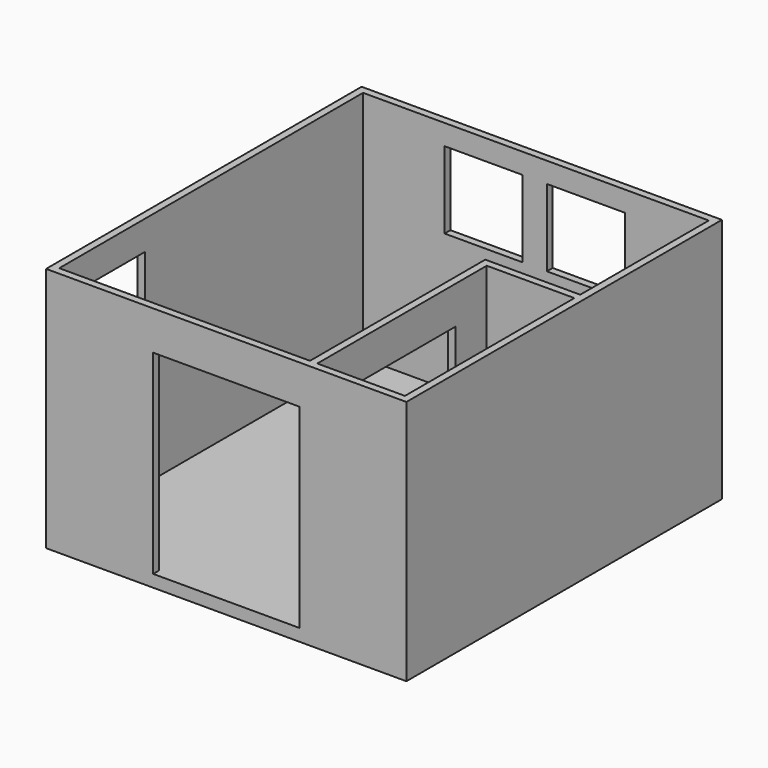
from build123d import *

# Parameters (mm, degrees)
F0_W      = 3759.2
F0_H      = 4114.8
F0_W_2    = 3606.8
F0_H_2    = 3962.4
F1_DEPTH  = 2438.4
F2_W      = 990.6
F2_H      = 2133.6
F3_DEPTH  = 76.2
F4_W      = 812.8
F4_H      = 802.597539
F5_DEPTH  = 76.2
F6_W      = 1524
F6_H      = 2032
F7_DEPTH  = 76.2
F8_W      = 3759.2
F8_H      = 4114.8
F9_DEPTH  = 127
F11_DEPTH = 2438.4
F12_W     = 1219.2
F12_H     = 2044.7
F13_DEPTH = 76.2


with BuildPart() as f1:
    # F0 (on Top) → F1 (new body)
    with BuildSketch(Plane.XY):
        with Locations((1803.4, 1981.2)):
            Rectangle(F0_W, F0_H)
        with Locations((1803.4, 1981.2)):
            Rectangle(F0_W_2, F0_H_2, mode=Mode.SUBTRACT)
    extrude(amount=F1_DEPTH)

    # F2 (on face) → F3 (cut, through all)
    with BuildSketch(Plane(origin=(-76.2, 0, 0), x_dir=(0, -1, 0), z_dir=(-1, 0, 0))):
        with Locations((-622.3, 1066.8)):
            Rectangle(F2_W, F2_H)
    extrude(amount=-F3_DEPTH, mode=Mode.SUBTRACT)

    # F4 (on face) → F5 (cut, through all)
    with BuildSketch(Plane(origin=(0, 4038.6, 0), x_dir=(-1, 0, 0), z_dir=(0, 1, 0))):
        with Locations((-1257.3, 1823.698769)):
            Rectangle(F4_W, F4_H)
        with Locations((-2324.1, 1823.698769)):
            Rectangle(F4_W, F4_H)
    extrude(amount=-F5_DEPTH, mode=Mode.SUBTRACT)

    # F6 (on face) → F7 (cut, through all)
    with BuildSketch(Plane.XZ.offset(76.2)):
        with Locations((1803.4, 1016)):
            Rectangle(F6_W, F6_H)
    extrude(amount=-F7_DEPTH, mode=Mode.SUBTRACT)

    # F8 (on Top) → F9 (join)
    with BuildSketch(Plane.XY):
        with Locations((1803.4, 1981.2)):
            Rectangle(F8_W, F8_H)
    extrude(amount=-F9_DEPTH)

    # F10 (on face) → F11 (join)
    with BuildSketch(Plane.XY):
        Polygon((2616.2, 0), (2692.4, 0), (2692.4, 2209.8), (3606.8, 2209.8), (3606.8, 2286), (2616.2, 2286), align=None)
    extrude(amount=F11_DEPTH)

    # F12 (on face) → F13 (cut, through all)
    with BuildSketch(Plane(origin=(2616.2, 0, 0), x_dir=(0, -1, 0), z_dir=(-1, 0, 0))):
        with Locations((-1189.983554, 1022.35)):
            Rectangle(F12_W, F12_H)
    extrude(amount=-F13_DEPTH, mode=Mode.SUBTRACT)


solid = f1.part
